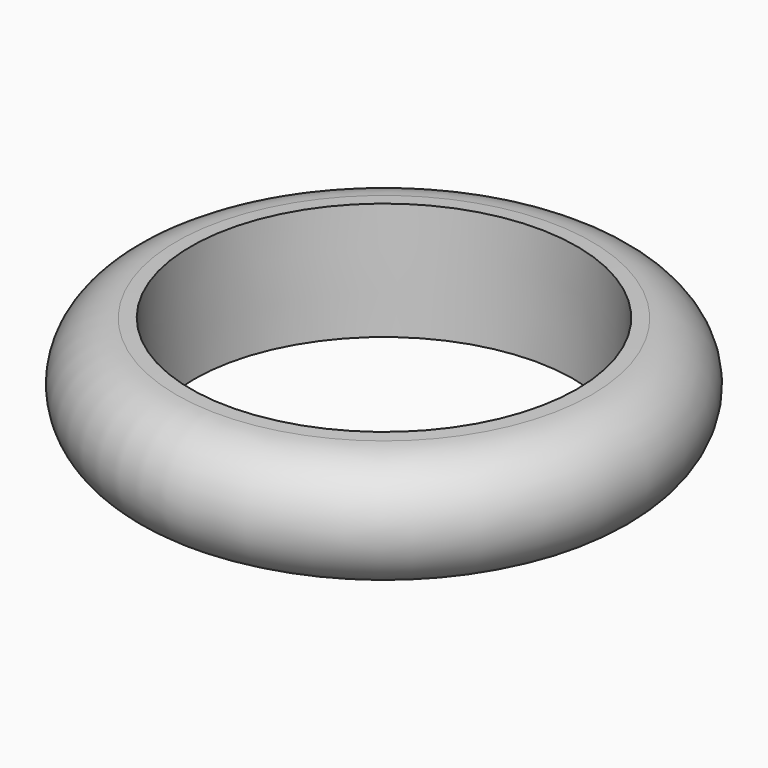
from build123d import *


with BuildPart() as f2:
    # F2: sweep along a path in F0
    with BuildLine(Plane.XY) as f2_path:
        CenterArc((0, 0), 40, 0, 360)
    # F1 (on Front) → F2 (sweep)
    with BuildSketch(Plane.XZ):
        with BuildLine():
            Line((-40, 12.0809700327), (-43, 12))
            ThreePointArc((-43, 12), (-54.6761198692, -0.3238801308), (-42.3522397385, -12))
            Line((-42.3522397385, -12), (-39.3522397385, -11.9190299673))
            Line((-39.3522397385, -11.9190299673), (-40, 12.0809700327))
        make_face()
    sweep(path=f2_path.line)


solid = f2.part
